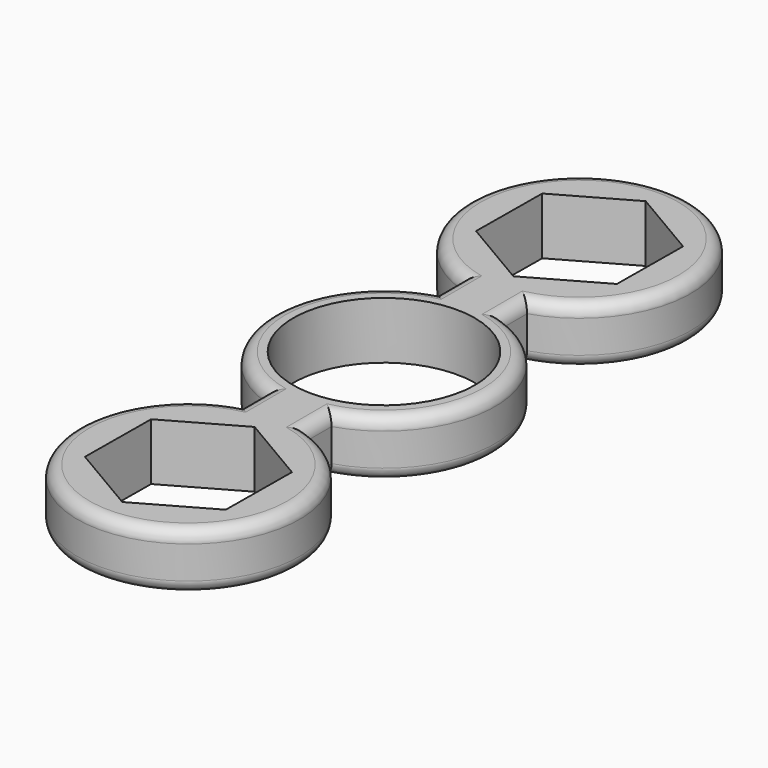
from build123d import *

# Parameters (mm, degrees)
F0_R     = 11.15
F1_DEPTH = 7
F3_COUNT = 2
F5_R     = 1.5


with BuildPart() as f1:
    # F0 (on Top) → F1 (new body)
    with BuildSketch(Plane.XY):
        with BuildLine():
            Line((-4, 16.949233739), (-4, 13.050766261))
            ThreePointArc((-4, 13.050766261), (0, -13.65), (4, 13.050766261))
            Line((4, 13.050766261), (4, 16.949233739))
            ThreePointArc((4, 16.949233739), (0, 43.65), (-4, 16.949233739))
        make_face()
        Circle(F0_R, mode=Mode.SUBTRACT)
        Polygon((8.7421711827, 34.949186096), (8.6572064785, 24.9036507196), (-0.0849647041, 19.9544646236), (-8.7421711827, 25.050813904), (-8.6572064785, 35.0963492804), (0.0849647041, 40.0455353764), align=None, mode=Mode.SUBTRACT)
    extrude(amount=F1_DEPTH)


with BuildPart() as f3_1:
    # F3: instance of F1
    add(f1.part.rotate(Axis((0, 0, 5.0780833699), (0, 0, 1)), 1 * 360 / F3_COUNT))


with BuildPart() as f1_1:
    add(f1.part)

    # F4: union F3_1
    add(f3_1.part)

    # F5
    f5_edges = [f1_1.edges().sort_by_distance(p)[0] for p in [
        (0, 43.65, 7),
        (4, 15, 7),
        (-4, 15, 7),
        (-13.65, 0, 7),
        (13.65, 0, 7),
        (4, -15, 7),
        (-4, -15, 7),
        (0, -43.65, 7),
        (0, -43.65, 0),
        (13.65, 0, 0),
        (4, -15, 0),
        (-4, -15, 0),
        (-13.65, 0, 0),
        (0, 43.65, 0),
        (4, 15, 0),
        (-4, 15, 0),
    ]]
    fillet(f5_edges, radius=F5_R)


solid = f1_1.part
